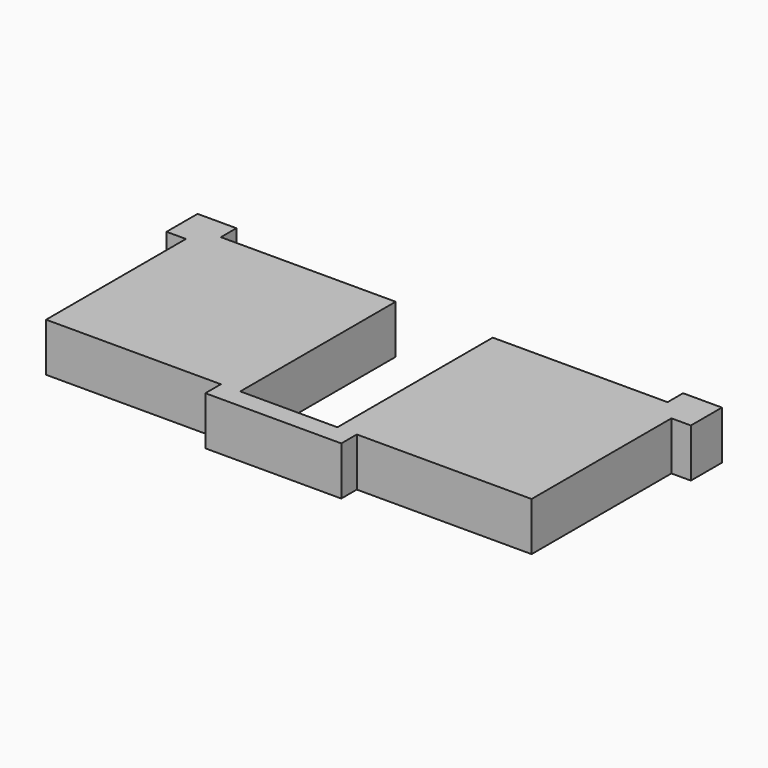
from build123d import *

# Parameters (mm, degrees)
F1_DEPTH = 5


with BuildPart() as f1:
    # F0 (on Top) → F1 (new body)
    with BuildSketch(Plane.XY):
        Polygon((5, 0), (0, 0), (-5, 0), (-7, 0), (-7, -2), (0, -2), (7, -2), (7, 0), align=None)
        Polygon((5, 20), (5, 0), (7, 0), (25, 0), (25, 18), (25, 20), (23, 20), align=None)
        Polygon((-7, 0), (-5, 0), (-5, 20), (-23, 20), (-25, 20), (-25, 18), (-25, 0), align=None)
        Polygon((23, 22), (23, 20), (25, 20), (25, 18), (27, 18), (27, 22), align=None)
        Polygon((-25, 20), (-23, 20), (-23, 22), (-27, 22), (-27, 18), (-25, 18), align=None)
    extrude(amount=F1_DEPTH)


solid = f1.part
